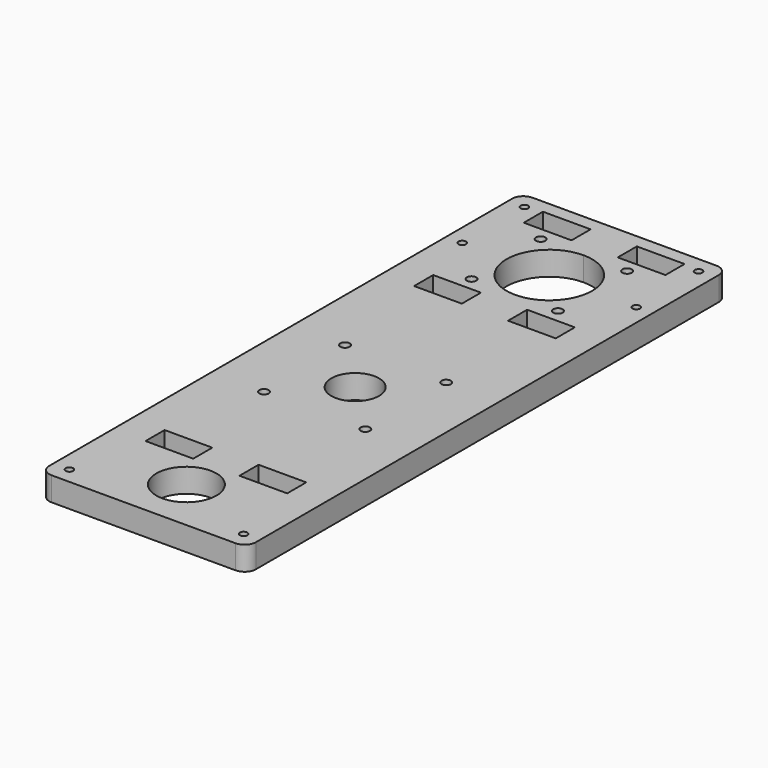
from build123d import *

# Parameters (mm, degrees)
F0_W     = 55
F0_H     = 160
F0_W_2   = 12.7
F0_H_2   = 6.35
F0_R     = 8
F0_R_2   = 6.35
F1_DEPTH = 6.35
F2_D     = 2.5
F3_R     = 3
F4_D     = 2


with BuildPart() as f1:
    # F0 (on Top) → F1 (new body)
    with BuildSketch(Plane.XY):
        with Locations((0, -55)):
            Rectangle(F0_W, F0_H)
        with Locations((-12.5, -107.6)):
            Rectangle(F0_W_2, F0_H_2, mode=Mode.SUBTRACT)
        with Locations((0, -120.735)):
            Circle(F0_R, mode=Mode.SUBTRACT)
        with Locations((12.5, -107.6)):
            Rectangle(F0_W_2, F0_H_2, mode=Mode.SUBTRACT)
        with Locations((0, -64.6)):
            Circle(F0_R_2, mode=Mode.SUBTRACT)
        with Locations((-12.5, -18.25)):
            Rectangle(F0_W_2, F0_H_2, mode=Mode.SUBTRACT)
        with Locations((-12.5, 18.25)):
            Rectangle(F0_W_2, F0_H_2, mode=Mode.SUBTRACT)
        with Locations((12.5, -18.25)):
            Rectangle(F0_W_2, F0_H_2, mode=Mode.SUBTRACT)
        with BuildLine():
            ThreePointArc((0, 11.4), (8.0610173055, 8.0610173055), (11.4, 0))
            ThreePointArc((11.4, 0), (-8.0610173055, -8.0610173055), (0, 11.4))
        make_face(mode=Mode.SUBTRACT)
        with Locations((12.5, 18.25)):
            Rectangle(F0_W_2, F0_H_2, mode=Mode.SUBTRACT)
    extrude(amount=F1_DEPTH)

    # F2 (through all)
    with Locations(Plane(origin=(0, 0, 0), x_dir=(1, 0, 0), z_dir=(0, 0, -1))):
        with Locations((-11.5, -11.5), (11.5, -11.5), (11.5, 11.5), (-11.5, 11.5), (-13.46962, 51.133907857), (13.46962, 51.133907857), (13.46962, 78.057907857), (-13.46962, 78.057907857)):
            Hole(F2_D / 2)

    # F3
    f3_edges = [f1.edges().sort_by_distance(p)[0] for p in [
        (-27.5, -135, 3.175),
        (27.5, -135, 3.175),
        (27.5, 25, 3.175),
        (-27.5, 25, 3.175),
    ]]
    fillet(f3_edges, radius=F3_R)

    # F4 (through all)
    with Locations(Plane(origin=(0, 0, 0), x_dir=(1, 0, 0), z_dir=(0, 0, -1))):
        with Locations((-23.175, 130.675), (23.175, 130.675), (23.175, 0), (23.175, -20.675), (-23.175, -20.675), (-23.175, 0)):
            Hole(F4_D / 2)


solid = f1.part
